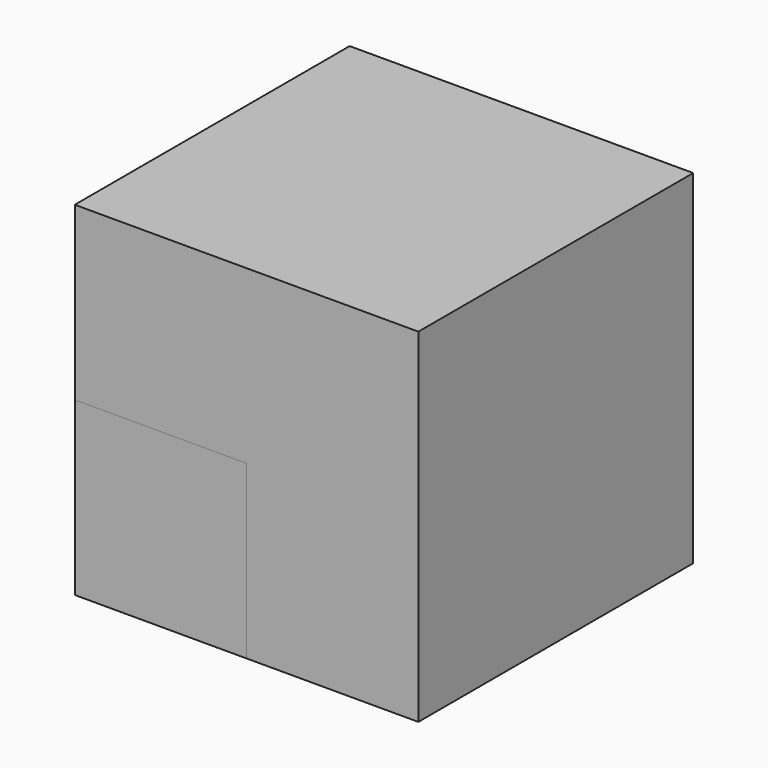
from build123d import *

# Parameters (mm, degrees)
BOX_W        = 10
BOX_H        = 10
BOX_DEPTH    = 10
BOX001_W     = 5
BOX001_H     = 5
BOX001_DEPTH = 5


with BuildPart() as obj1:
    # Box → Box (new body)
    with BuildSketch(Plane.XY):
        with Locations((5, 5)):
            Rectangle(BOX_W, BOX_H)
    extrude(amount=BOX_DEPTH)


with BuildPart() as cube_int:
    # Box001 → Box001 (new body)
    with BuildSketch(Plane.XY):
        with Locations((2.5, 2.5)):
            Rectangle(BOX001_W, BOX001_H)
    extrude(amount=BOX001_DEPTH)


solid = Compound([obj1.part, cube_int.part])
